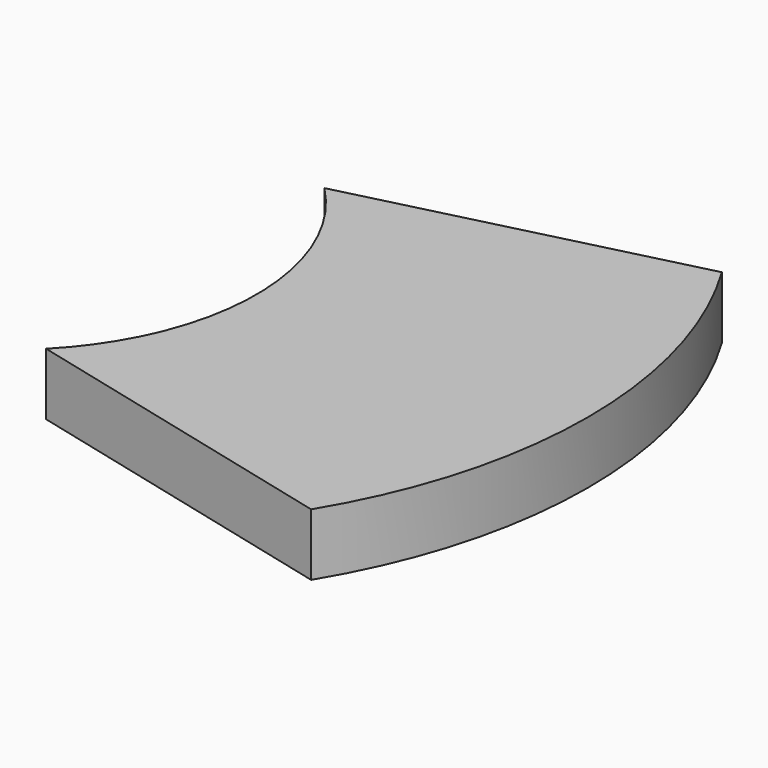
from build123d import *

# Parameters (mm, degrees)
F1_DEPTH = 19.05


with BuildPart() as f1:
    # F0 (on Top) → F1 (new body)
    with BuildSketch(Plane.XY):
        with BuildLine():
            Line((-30.586306, 0), (4.838097, 0))
            Line((4.838097, 0), (54.538528, 0))
            Line((54.538528, 0), (54.538528, 106.68))
            Line((54.538528, 106.68), (-47.061472, 81.28))
            ThreePointArc((-47.061472, 81.28), (-26.797886, 43.077628), (-30.586306, 0))
        make_face()
        with BuildLine():
            Line((54.538528, 0), (4.838097, 0))
            Line((4.838097, 0), (-30.586306, 0))
            ThreePointArc((-30.586306, 0), (-32.021192, -3.397376), (-33.618778, -6.721347))
            Line((-33.618778, -6.721347), (54.538528, -50.8))
            Line((54.538528, -50.8), (54.538528, 0))
        make_face()
        with BuildLine():
            Line((54.538528, -50.8), (-33.618778, -6.721347))
            ThreePointArc((-33.618778, -6.721347), (-39.630922, -16.571075), (-47.061472, -25.4))
            Line((-47.061472, -25.4), (54.538528, -50.8))
        make_face()
        with BuildLine():
            Line((54.538528, 106.68), (54.538528, 0))
            Line((54.538528, 0), (54.538528, -50.8))
            ThreePointArc((54.538528, -50.8), (76.455684, 27.94), (54.538528, 106.68))
        make_face()
    extrude(amount=F1_DEPTH)


solid = f1.part
